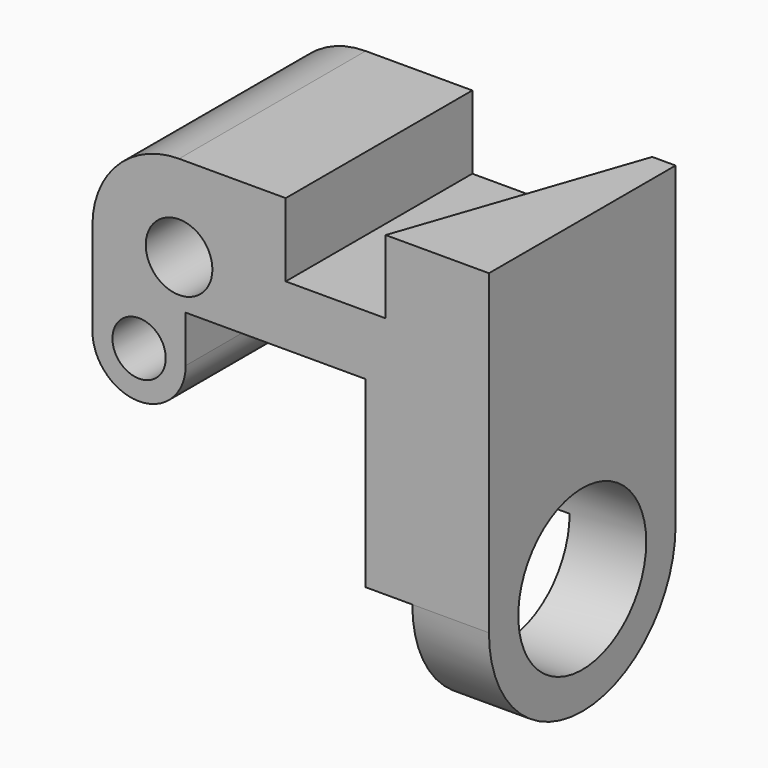
from build123d import *

# Parameters (mm, degrees)
F0_W     = 37
F0_H     = 55
F0_R     = 10
F1_DEPTH = 35
F3_DEPTH = 22
F4_W     = 23
F4_H     = 35
F6_R     = 24
F7_DEPTH = 37


with BuildPart() as f1:
    # F0 (on Front) → F1 (new body, symmetric)
    with BuildSketch(Plane.XZ):
        with Locations((46.500005, -42.603335)):
            Rectangle(F0_W, F0_H)
        with BuildLine():
            Line((28.000005, -15.103335), (65.000005, -15.103335))
            Line((65.000005, -15.103335), (65.000005, 24.896665))
            Line((65.000005, 24.896665), (-27.999995, 24.896665))
            ThreePointArc((-27.999995, 24.896665), (-46.384771, 17.281441), (-53.999995, -1.103335))
            Line((-53.999995, -1.103335), (-53.999995, -15.103335))
            Line((-53.999995, -15.103335), (-25.999995, -15.103335))
            Line((-25.999995, -15.103335), (28.000005, -15.103335))
        make_face()
        with Locations((-27.999995, -1.103335)):
            Circle(F0_R, mode=Mode.SUBTRACT)
        with BuildLine():
            Line((-25.999995, -29.103335), (-25.999995, -15.103335))
            Line((-25.999995, -15.103335), (-53.999995, -15.103335))
            Line((-53.999995, -15.103335), (-53.999995, -29.103335))
            Line((-53.999995, -29.103335), (-47.999995, -29.103335))
            ThreePointArc((-47.999995, -29.103335), (-39.999995, -21.103335), (-31.999995, -29.103335))
            Line((-31.999995, -29.103335), (-25.999995, -29.103335))
        make_face()
        with BuildLine():
            ThreePointArc((-53.999995, -29.103335), (-39.999995, -43.103335), (-25.999995, -29.103335))
            Line((-25.999995, -29.103335), (-31.999995, -29.103335))
            ThreePointArc((-31.999995, -29.103335), (-39.999995, -37.103335), (-47.999995, -29.103335))
            Line((-47.999995, -29.103335), (-53.999995, -29.103335))
        make_face()
    extrude(amount=F1_DEPTH, both=True)

    # F2 (on face) → F3 (cut)
    with BuildSketch(Plane.XY.offset(24.896665)):
        Polygon((58.000005, 35), (4.000005, 35), (4.000005, -35), (34.000005, -35), align=None)
    extrude(amount=-F3_DEPTH, mode=Mode.SUBTRACT)

    # F4 (on face) → F5 (revolve)
    with BuildSketch(Plane(origin=(0, 0, -70.103335), x_dir=(1, 0, 0), z_dir=(0, 0, -1))):
        with Locations((53.500005, 17.5)):
            Rectangle(F4_W, F4_H)
    revolve(axis=Axis((53.500005, 0, -70.103335), (1, 0, 0)))

    # F6 (on face) → F7 (cut)
    with BuildSketch(Plane.YZ.offset(65.000005)):
        with Locations((0, -70.103335)):
            Circle(F6_R)
    extrude(amount=-F7_DEPTH, mode=Mode.SUBTRACT)


solid = f1.part
